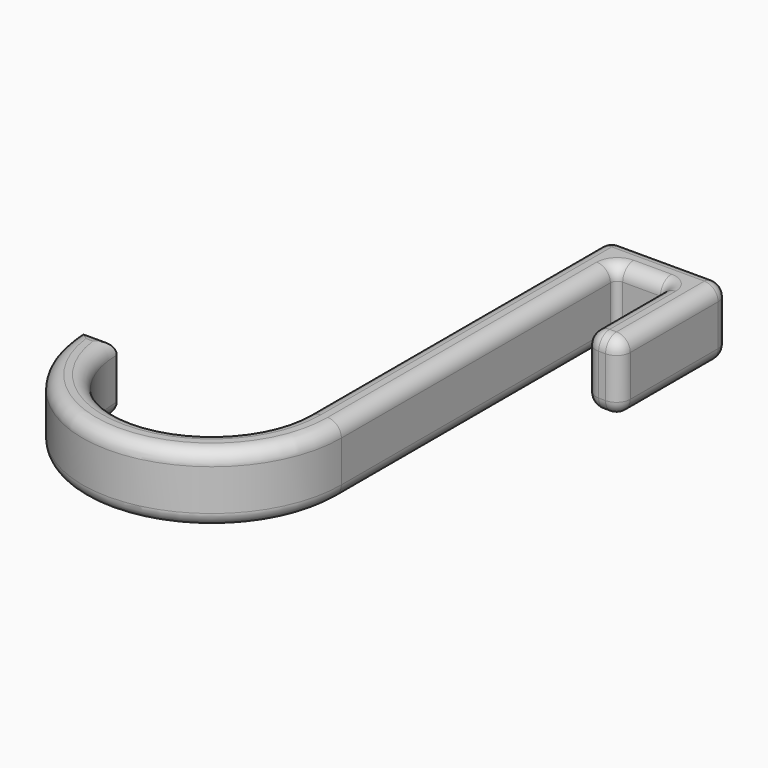
from build123d import *

# Parameters (mm, degrees)
F0_W     = 12.7
F0_H     = 38.1
F1_DEPTH = 25.4
F2_R     = 5.08
F3_R     = 2.54
F4_R     = 5.08


with BuildPart() as f1:
    # F0 (on Top) → F1 (new body)
    with BuildSketch(Plane.XY):
        with BuildLine():
            Line((5.467289, 31.414881), (-7.232711, 31.414881))
            Line((-7.232711, 31.414881), (-7.232711, -95.585119))
            ThreePointArc((-7.232711, -95.585119), (-42.453229, -130.805637), (-77.673748, -95.585119))
            Line((-77.673748, -95.585119), (-90.373748, -95.585119))
            ThreePointArc((-90.373748, -95.585119), (-42.453229, -143.505637), (5.467289, -95.585119))
            Line((5.467289, -95.585119), (5.467289, 31.414881))
        make_face()
        Polygon((-7.232711, 44.114881), (-7.232711, 31.414881), (5.467289, 31.414881), (24.517289, 31.414881), (37.217289, 31.414881), (37.217289, 44.114881), align=None)
        with Locations((30.867289, 12.364881)):
            Rectangle(F0_W, F0_H)
    extrude(amount=F1_DEPTH)

    # F2
    f2_edges = [f1.edges().sort_by_distance(p)[0] for p in [
        (37.217289, -6.685119, 12.7),
        (24.517289, -6.685119, 12.7),
        (37.217289, 44.114881, 12.7),
        (-7.232711, 44.114881, 12.7),
    ]]
    fillet(f2_edges, radius=F2_R)

    # F3
    f3_edges = [f1.edges().sort_by_distance(p)[0] for p in [
        (5.467289, 31.414881, 12.7),
        (24.517289, 31.414881, 12.7),
    ]]
    fillet(f3_edges, radius=F3_R)

    # F4
    f4_edges = [f1.edges().sort_by_distance(p)[0] for p in [
        (24.517289, 13.634881, 25.4),
        (23.77334, 30.670933, 25.4),
        (26.005187, -5.197221, 25.4),
        (14.992289, 31.414881, 25.4),
        (30.867289, -6.685119, 25.4),
        (6.211238, 30.670933, 25.4),
        (35.729392, -5.197221, 25.4),
        (5.467289, -33.355119, 25.4),
        (37.217289, 18.714881, 25.4),
        (-42.453229, -143.505637, 25.4),
        (35.729392, 42.626984, 25.4),
        (-84.023748, -95.585119, 25.4),
        (14.992289, 44.114881, 25.4),
        (-42.453229, -130.805637, 25.4),
        (-5.744813, 42.626984, 25.4),
        (-7.232711, -28.275119, 25.4),
        (24.517289, 13.634881, 0),
        (23.77334, 30.670933, 0),
        (26.005187, -5.197221, 0),
        (14.992289, 31.414881, 0),
        (30.867289, -6.685119, 0),
        (6.211238, 30.670933, 0),
        (35.729392, -5.197221, 0),
        (5.467289, -33.355119, 0),
        (37.217289, 18.714881, 0),
        (-42.453229, -143.505637, 0),
        (35.729392, 42.626984, 0),
        (-84.023748, -95.585119, 0),
        (14.992289, 44.114881, 0),
        (-42.453229, -130.805637, 0),
        (-5.744813, 42.626984, 0),
        (-7.232711, -28.275119, 0),
    ]]
    fillet(f4_edges, radius=F4_R)


solid = f1.part
